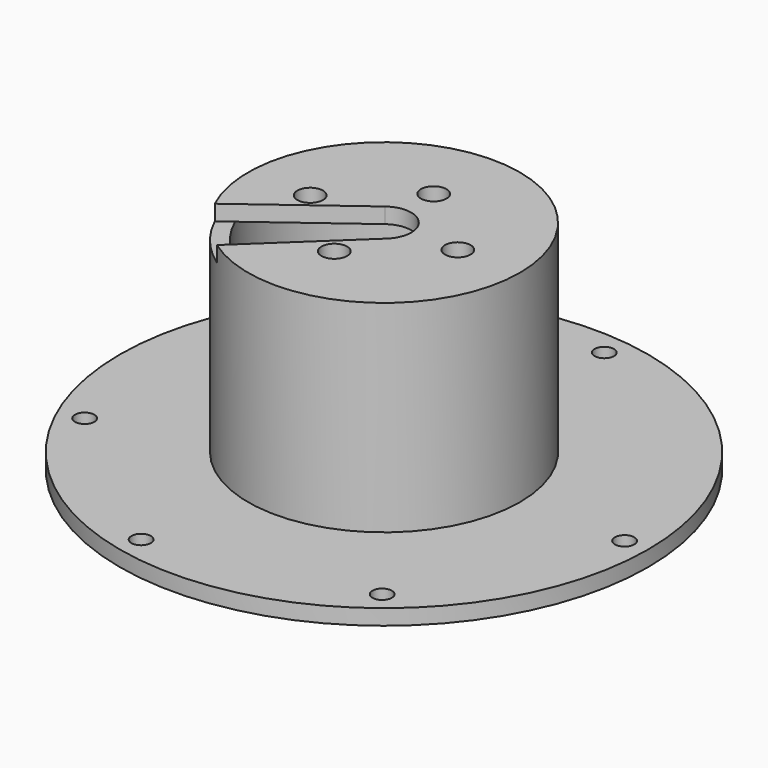
from build123d import *

# Parameters (mm, degrees)
F2_R      = 17.5
F3_DEPTH  = 28
F4_T      = -2
F6_D      = 3.3
F2_R_2    = 34
F7_DEPTH  = 2
F9_D      = 2.5
F10_DEPTH = 2


with BuildPart() as f3:
    # F2 (on Top) → F3 (new body)
    with BuildSketch(Plane.XY):
        Circle(F2_R)
    extrude(amount=F3_DEPTH)

    # F4
    f4_openings = [f3.faces().sort_by_distance(p)[0] for p in [
        (0, 0, 0),
    ]]
    offset(amount=F4_T, openings=f4_openings)

    # F6 (through all)
    with Locations(Plane.XY.offset(28)):
        with Locations((0, 8), (-9.5, 0), (0, -8), (9.5, 0)):
            Hole(F6_D / 2)

    # F2 (on Top) → F7 (join)
    with BuildSketch(Plane.XY):
        Circle(F2_R_2)
        Circle(F2_R, mode=Mode.SUBTRACT)
    extrude(amount=F7_DEPTH)

    # F9 (through all)
    with Locations(Plane.XY.offset(2)):
        with Locations((-6.2225225174, 30.3406529148), (-27.6628416756, 13.9299029504), (-28.0808143116, -13.0668616498), (-7.1588025741, -30.1334789143), (19.2035334136, -24.3001915673), (30.972165016, 0), (3.7694229457, 30.7419331928)):
            Hole(F9_D / 2)

    # F5 (on face) → F10 (cut, through all)
    with BuildSketch(Plane.XY.offset(28)):
        with BuildLine():
            ThreePointArc((2.4031919002, -2.5445370288), (2.6811555509, 2.2497566339), (-2.0885698997, 2.8085362333))
            Line((-2.0885698997, 2.8085362333), (-15.8475312913, -7.4233248596))
            ThreePointArc((-15.8475312913, -7.4233248596), (-13.4057777546, -11.2487831695), (-10.0624428041, -14.3177248477))
            Line((-10.0624428041, -14.3177248477), (2.4031919002, -2.5445370288))
        make_face()
    extrude(amount=-F10_DEPTH, mode=Mode.SUBTRACT)


solid = f3.part
